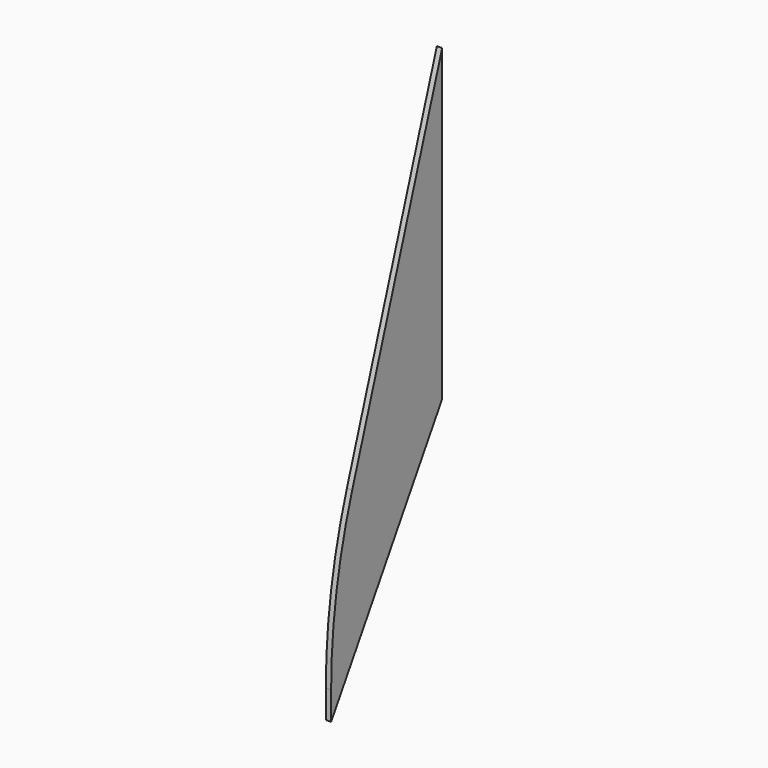
from build123d import *

# Parameters (mm, degrees)
F1_DEPTH = 1.27
F2_R     = 101.6
F3_DEPTH = 167.132


with BuildPart() as f1:
    # F0 (on Right) → F1 (new body, symmetric)
    with BuildSketch(Plane.YZ):
        with BuildLine():
            Line((-168.056809, -114.3), (-98.425, 0))
            Line((-98.425, 0), (-98.425, 152.4))
            Line((-98.425, 152.4), (-155.447054, -21.754829))
            ThreePointArc((-155.447054, -21.754829), (-164.884561, -60.773228), (-168.056809, -100.791211))
            Line((-168.056809, -100.791211), (-168.056809, -114.3))
        make_face()
    extrude(amount=F1_DEPTH, both=True)

    # F2 (on Top) → F3 (cut, symmetric)
    with BuildSketch(Plane.XY):
        Circle(F2_R)
    extrude(amount=F3_DEPTH, both=True, mode=Mode.SUBTRACT)


solid = f1.part
